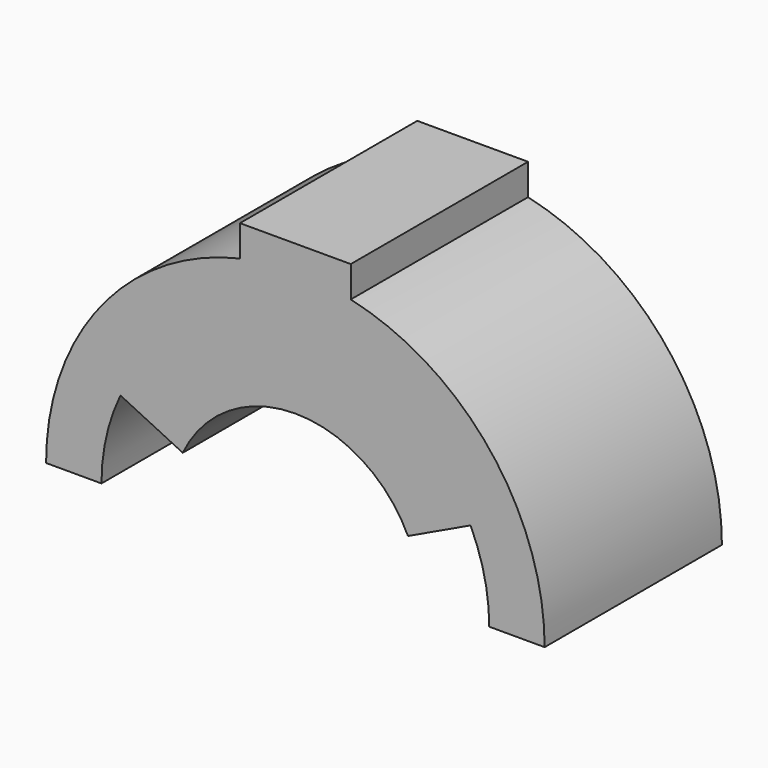
from build123d import *

# Parameters (mm, degrees)
F1_DEPTH = 20


with BuildPart() as f1:
    # F0 (on Front) → F1 (new body)
    with BuildSketch(Plane.XZ):
        with BuildLine():
            ThreePointArc((17.5859551343, 19.07713693), (18.019843983, 22.9498427249), (19.2999951541, 26.6305115074))
            ThreePointArc((19.2999951541, 26.6305115074), (20.3740299114, 28.5539114993), (21.6811985158, 30.32713693))
            ThreePointArc((21.6811985158, 30.32713693), (25.4785218795, 33.7040718876), (30.0859551343, 35.8476467612))
            Line((30.0859551343, 35.8476467612), (30.0859551343, 41.0145478985))
            ThreePointArc((30.0859551343, 41.0145478985), (17.4968960349, 33.1083521304), (12.5859551343, 19.07713693))
            Line((12.5859551343, 19.07713693), (17.5859551343, 19.07713693))
        make_face()
        with BuildLine():
            Line((30.0859551343, 43.82713693), (30.0859551343, 41.0145478985))
            ThreePointArc((30.0859551343, 41.0145478985), (35.0859551343, 41.57713693), (40.0859551343, 41.0145478985))
            Line((40.0859551343, 41.0145478985), (40.0859551343, 43.82713693))
            Line((40.0859551343, 43.82713693), (30.0859551343, 43.82713693))
        make_face()
        with BuildLine():
            Line((30.0859551343, 41.0145478985), (30.0859551343, 35.8476467612))
            ThreePointArc((30.0859551343, 35.8476467612), (35.0859551343, 36.57713693), (40.0859551343, 35.8476467612))
            Line((40.0859551343, 35.8476467612), (40.0859551343, 41.0145478985))
            ThreePointArc((40.0859551343, 41.0145478985), (35.0859551343, 41.57713693), (30.0859551343, 41.0145478985))
        make_face()
        with BuildLine():
            ThreePointArc((48.4907117527, 30.32713693), (49.8138676132, 28.5290464732), (50.8973434351, 26.57713693))
            ThreePointArc((50.8973434351, 26.57713693), (52.1585837436, 22.921008984), (52.5859551343, 19.07713693))
            Line((52.5859551343, 19.07713693), (57.5859551343, 19.07713693))
            ThreePointArc((57.5859551343, 19.07713693), (52.6750142336, 33.1083521304), (40.0859551343, 41.0145478985))
            Line((40.0859551343, 41.0145478985), (40.0859551343, 35.8476467612))
            ThreePointArc((40.0859551343, 35.8476467612), (44.693388389, 33.7040718876), (48.4907117527, 30.32713693))
        make_face()
        with BuildLine():
            Line((19.2999951541, 26.6305115074), (24.9214912266, 23.8985655014))
            ThreePointArc((24.9214912266, 23.8985655014), (29.0725771912, 28.5851222957), (35.0859551343, 30.32713693))
            Line((35.0859551343, 30.32713693), (30.0859551343, 30.32713693))
            Line((30.0859551343, 30.32713693), (30.0859551343, 35.8476467612))
            ThreePointArc((30.0859551343, 35.8476467612), (25.4785218795, 33.7040718876), (21.6811985158, 30.32713693))
            ThreePointArc((21.6811985158, 30.32713693), (20.3740299114, 28.5539114993), (19.2999951541, 26.6305115074))
        make_face()
        with BuildLine():
            Line((30.0859551343, 30.32713693), (35.0859551343, 30.32713693))
            Line((35.0859551343, 30.32713693), (40.0859551343, 30.32713693))
            Line((40.0859551343, 30.32713693), (40.0859551343, 35.8476467612))
            ThreePointArc((40.0859551343, 35.8476467612), (35.0859551343, 36.57713693), (30.0859551343, 35.8476467612))
            Line((30.0859551343, 35.8476467612), (30.0859551343, 30.32713693))
        make_face()
        with BuildLine():
            Line((40.0859551343, 30.32713693), (35.0859551343, 30.32713693))
            ThreePointArc((35.0859551343, 30.32713693), (41.0993330773, 28.5851222957), (45.2504190419, 23.8985655014))
            Line((45.2504190419, 23.8985655014), (50.8973434351, 26.57713693))
            ThreePointArc((50.8973434351, 26.57713693), (49.8138676132, 28.5290464732), (48.4907117527, 30.32713693))
            ThreePointArc((48.4907117527, 30.32713693), (44.693388389, 33.7040718876), (40.0859551343, 35.8476467612))
            Line((40.0859551343, 35.8476467612), (40.0859551343, 30.32713693))
        make_face()
    extrude(amount=-F1_DEPTH)


solid = f1.part
